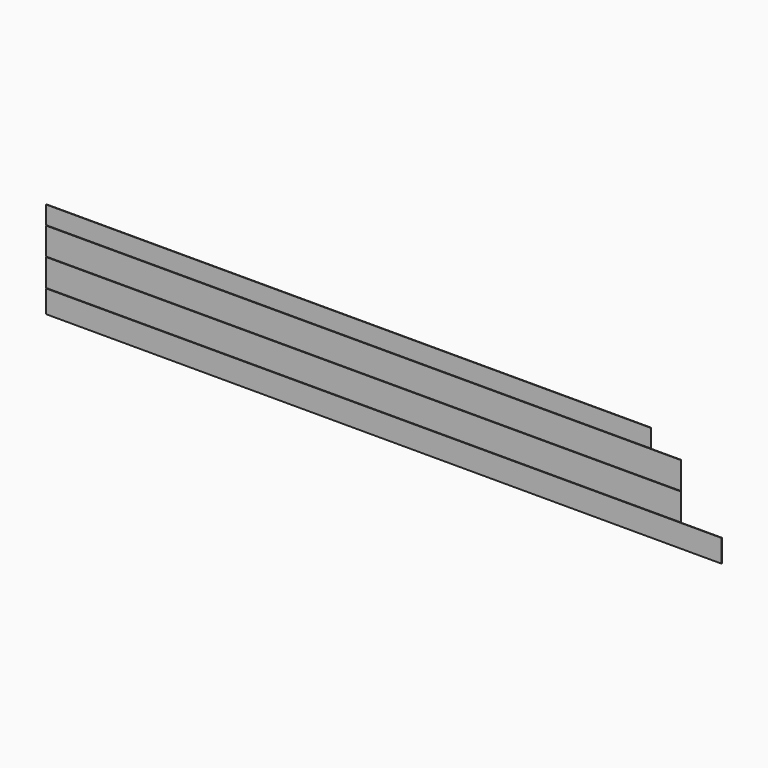
from build123d import *

# Parameters (mm, degrees)
F0_W     = 1333.977461
F0_H     = 40
F0_W_2   = 1400
F0_H_2   = 60
F1_DEPTH = 1


with BuildPart() as f1:
    # F0 (on Front) → F1 (new body)
    with BuildSketch(Plane.XZ):
        with Locations((666.98873, 193)):
            Rectangle(F0_W, F0_H)
        Polygon((0, 172), (0, 112), (1400, 112), (1400, 172), (1333.977461, 172), align=None)
        with Locations((700, 81)):
            Rectangle(F0_W_2, F0_H_2)
        Polygon((0, 50), (0, 0), (1490, 0), (1490, 50), (1400, 50), align=None)
    extrude(amount=F1_DEPTH)


solid = f1.part
